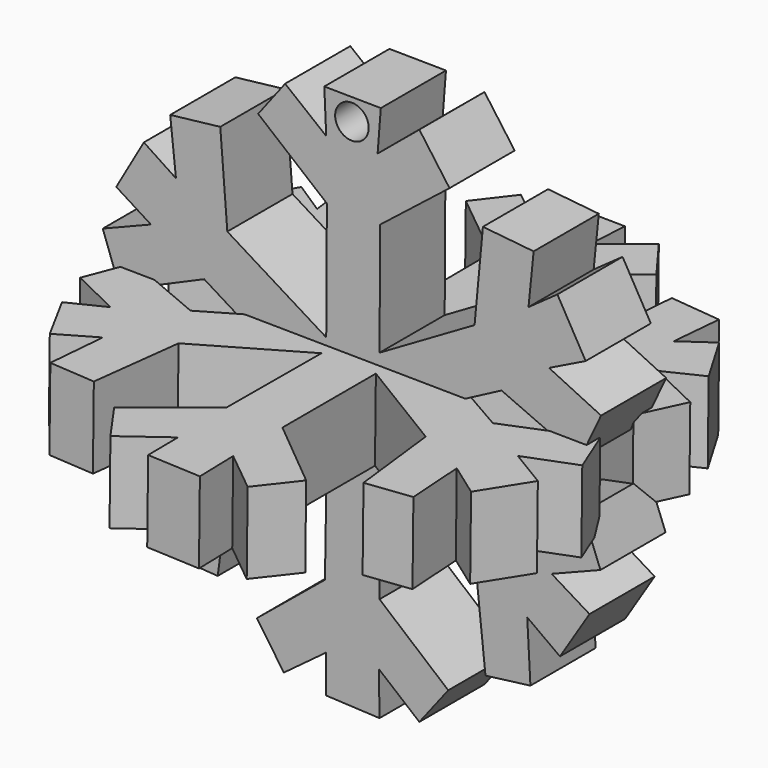
from build123d import *

# Parameters (mm, degrees)
F1_DEPTH = 18.07742
F4_ANGLE = 90
F6_R     = 3.7233008803
F7_DEPTH = 43.87273


with BuildPart() as f1:
    # F0 (on Front) → F1 (new body)
    with BuildSketch(Plane.XZ):
        Polygon((27.2258536, 23.9473486), (6.1293756, 11.688572), (6.2719204, 36.776279), (21.6666318, 48.8924854), (14.967077, 58.157872), (5.7017412, 50.4604782), (6.4144652, 59.5832692), (-6.129401, 59.7258394), (-5.7017666, 50.1753886), (-14.8245576, 57.445148), (-20.8113884, 49.6052094), (-5.5592218, 37.0613686), (-5.7017666, 10.8333032), (-27.653488, 24.3749576), (-29.2214808, 44.3311026), (-40.339899, 43.0482248), (-39.0569958, 31.0745378), (-46.184185, 35.7784654), (-52.3135606, 25.0876816), (-44.6161922, 20.2412092), (-55.306976, 15.9648906), (-51.4582918, 5.2741068), (-32.7850754, 13.399135), (-11.5460526, 0.2850642), (-32.9276202, -12.401296), (-51.315747, -4.5614082), (-55.306976, -14.8245576), (-44.4736474, -20.0986898), (-52.1710158, -23.9473486), (-46.6118194, -34.4955876), (-38.6293614, -29.79166), (-39.9122646, -42.90568), (-29.79166, -43.618404), (-27.0833342, -23.23465), (-5.5592218, -10.548239), (-5.9868562, -36.6337596), (-21.096478, -49.0350556), (-15.1096472, -57.7302376), (-5.7017666, -50.7455932), (-5.7017666, -59.1556602), (6.1293756, -59.7258394), (5.9868308, -50.175414), (14.967077, -57.5876928), (21.3815422, -49.3201452), (6.1293756, -36.4912148), (6.4144652, -10.548239), (27.5109432, -23.5197396), (29.6490898, -43.7609488), (39.6271496, -42.4780456), (38.9144256, -29.3640256), (46.1841596, -34.6381324), (52.7411696, -24.2324382), (44.3311026, -19.1008762), (55.1644312, -14.8245576), (51.315747, -4.8464978), (33.497774, -12.2587766), (10.4056942, 1.140333), (33.2126844, 13.11402), (50.603023, 5.4166516), (55.306976, 15.3947114), (43.7609234, 20.9539332), (51.8859262, 24.9451622), (45.6139804, 35.9210102), (39.1995152, 31.359602), (40.3398736, 42.620565), (29.0789106, 43.7609488), align=None)
    extrude(amount=F1_DEPTH)


with BuildPart() as f2_1:
    # F2: instance of F1
    add(f1.part.mirror(Plane(origin=(-0.0589215067, -18.07742, 0.2699364412), x_dir=(1, 0, 0), z_dir=(0, -1, 0))))


with BuildPart() as f2_1_1:
    # F3: moved
    add(f2_1.part.moved(Location((0, 16.92958, 130.11045))))


with BuildPart() as f2_1_2:
    # F4: moved
    add(f2_1_1.part.rotate(Axis((0.1425321, -1.14784, 189.7650043), (-0.9999354163, 0, 0.0113649962)), F4_ANGLE))


with BuildPart() as f2_1_3:
    # F5: moved
    add(f2_1_2.part.moved(Location((0, 50.57711, -198.66446))))


with BuildPart() as f1_1:
    add(f1.part)

    # F6 (on Front) → F7 (cut)
    with BuildSketch(Plane.XZ):
        with Locations((0, 54.8409111798)):
            Circle(F6_R)
    extrude(amount=F7_DEPTH, mode=Mode.SUBTRACT)


solid = Compound([f2_1_3.part, f1_1.part])
